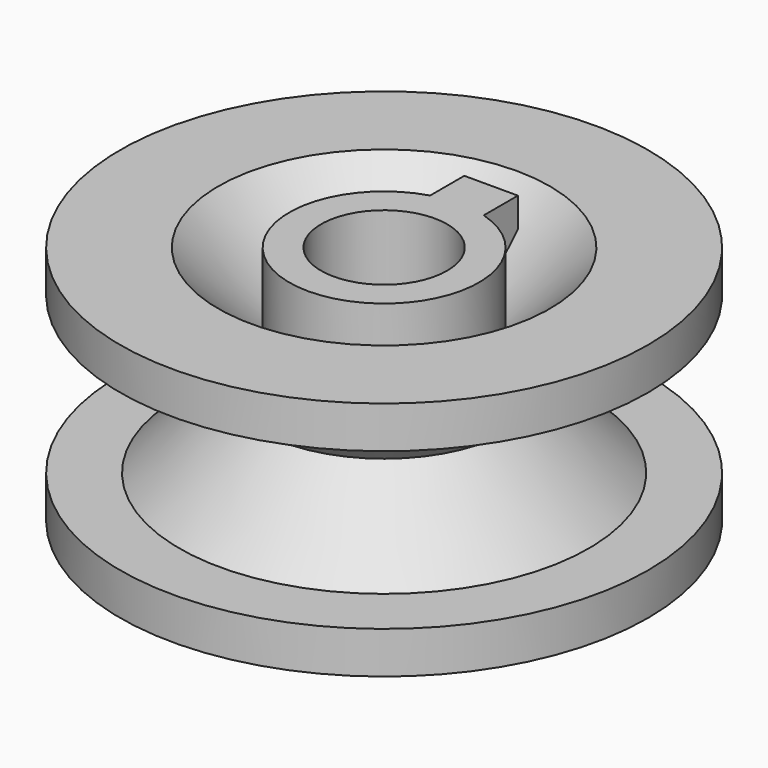
from build123d import *

# Parameters (mm, degrees)
F0_R     = 15.9004
F1_DEPTH = 7.239
F2_R     = 3.7973
F3_DEPTH = 14.479
F6_W     = 3.2282739412
F6_H     = 3.175


with BuildPart() as f1:
    # F0 (on Top) → F1 (new body, symmetric)
    with BuildSketch(Plane.XY):
        Circle(F0_R)
    extrude(amount=F1_DEPTH, both=True)

    # F2 (on face) → F3 (cut, through all)
    with BuildSketch(Plane.XY.offset(7.239)):
        Circle(F2_R)
    extrude(amount=-F3_DEPTH, mode=Mode.SUBTRACT)

    # F4 (on Right) → F5 (revolve, cut)
    with BuildSketch(Plane.YZ):
        Polygon((21.4757, -4.7117), (21.4757, 4.7117), (12.3317, 4.7117), (7.62, 0), (12.3317, -4.7117), align=None)
        Polygon((12.0194002201, 9.2803370403), (5.715, 9.2803370403), (5.715, 2.9428403359), align=None)
    revolve(axis=Axis((0, 0, 7.4247815646), (0, 0, 1)), mode=Mode.SUBTRACT)

    # F6 (on face) → F7 (join, up to the next surface of F1)
    with BuildSketch(Plane.XY.offset(7.239)):
        with Locations((0, 6.4679230563)):
            Rectangle(F6_W, F6_H)
    extrude(until=Until.NEXT, dir=(0, 0, -1))


solid = f1.part
